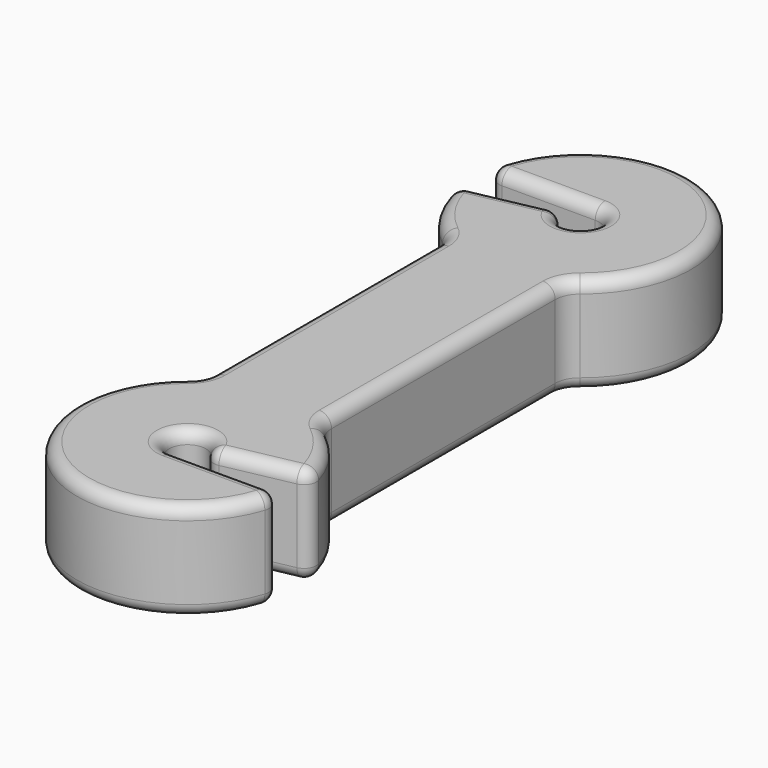
from build123d import *

# Parameters (mm, degrees)
F1_DEPTH = 8
F2_R     = 1


with BuildPart() as f1:
    # F0 (on Top) → F1 (new body)
    with BuildSketch(Plane.XY):
        with BuildLine():
            ThreePointArc((4.8378184612, 11.3834903417), (5.0369187638, 12.253410039), (5.594578741, 12.9501284614))
            ThreePointArc((5.594578741, 12.9501284614), (5.1477303917, 27.3824705766), (-8.5492598364, 22.8125))
            ThreePointArc((-8.5492598364, 22.8125), (-8.4094346641, 21.91369803), (-7.5993420768, 21.5))
            Line((-7.5993420768, 21.5), (0, 21.5))
            ThreePointArc((0, 21.5), (1.2842790822, 19.2249985555), (-1.3270908585, 19.3008363187))
            ThreePointArc((-1.3270908585, 19.3008363187), (-1.7835131243, 19.7383614435), (-2.4111500974, 19.8146592127))
            Line((-2.4111500974, 19.8146592127), (-7.8689015991, 18.7044755415))
            ThreePointArc((-7.8689015991, 18.7044755415), (-8.5268393677, 18.2394110281), (-8.6282657991, 17.4401114674))
            ThreePointArc((-8.6282657991, 17.4401114674), (-7.4573663952, 14.9613805017), (-5.594578741, 12.9501284614))
            ThreePointArc((-5.594578741, 12.9501284614), (-5.0369187638, 12.253410039), (-4.8378184612, 11.3834903417))
            Line((-4.8378184612, 11.3834903417), (-4.8378184612, -11.3834903417))
            ThreePointArc((-4.8378184612, -11.3834903417), (-5.0369187638, -12.253410039), (-5.594578741, -12.9501284614))
            ThreePointArc((-5.594578741, -12.9501284614), (-5.1477303917, -27.3824705766), (8.5492598364, -22.8125))
            ThreePointArc((8.5492598364, -22.8125), (8.4094346641, -21.91369803), (7.5993420768, -21.5))
            Line((7.5993420768, -21.5), (0, -21.5))
            ThreePointArc((0, -21.5), (-1.2842790822, -19.2249985555), (1.3270908585, -19.3008363187))
            ThreePointArc((1.3270908585, -19.3008363187), (1.7835131243, -19.7383614435), (2.4111500974, -19.8146592127))
            Line((2.4111500974, -19.8146592127), (7.8689015991, -18.7044755415))
            ThreePointArc((7.8689015991, -18.7044755415), (8.5268393677, -18.2394110281), (8.6282657991, -17.4401114674))
            ThreePointArc((8.6282657991, -17.4401114674), (7.4573663952, -14.9613805017), (5.594578741, -12.9501284614))
            ThreePointArc((5.594578741, -12.9501284614), (5.0369187638, -12.253410039), (4.8378184612, -11.3834903417))
            Line((4.8378184612, -11.3834903417), (4.8378184612, 11.3834903417))
        make_face()
    extrude(amount=F1_DEPTH)

    # F2
    f2_edges = [f1.edges().sort_by_distance(p)[0] for p in [
        (8.526839, -18.239411, 8),
        (7.457366, -14.961381, 8),
        (5.036919, -12.25341, 8),
        (4.837818, 0, 8),
        (5.036919, 12.25341, 8),
        (5.14773, 27.382471, 8),
        (-8.409435, 21.913698, 8),
        (-3.799671, 21.5, 8),
        (1.284279, 19.224999, 8),
        (-1.783513, 19.738361, 8),
        (-5.140026, 19.259567, 8),
        (-8.526839, 18.239411, 8),
        (-7.457366, 14.961381, 8),
        (-5.036919, 12.25341, 8),
        (-4.837818, 0, 8),
        (-5.036919, -12.25341, 8),
        (-5.14773, -27.382471, 8),
        (8.409435, -21.913698, 8),
        (3.799671, -21.5, 8),
        (-1.284279, -19.224999, 8),
        (1.783513, -19.738361, 8),
        (5.140026, -19.259567, 8),
        (8.526839, -18.239411, 0),
        (7.457366, -14.961381, 0),
        (5.036919, -12.25341, 0),
        (4.837818, 0, 0),
        (5.036919, 12.25341, 0),
        (5.14773, 27.382471, 0),
        (-8.409435, 21.913698, 0),
        (-3.799671, 21.5, 0),
        (1.284279, 19.224999, 0),
        (-1.783513, 19.738361, 0),
        (-5.140026, 19.259567, 0),
        (-8.526839, 18.239411, 0),
        (-7.457366, 14.961381, 0),
        (-5.036919, 12.25341, 0),
        (-4.837818, 0, 0),
        (-5.036919, -12.25341, 0),
        (-5.14773, -27.382471, 0),
        (8.409435, -21.913698, 0),
        (3.799671, -21.5, 0),
        (-1.284279, -19.224999, 0),
        (1.783513, -19.738361, 0),
        (5.140026, -19.259567, 0),
    ]]
    fillet(f2_edges, radius=F2_R)


solid = f1.part
